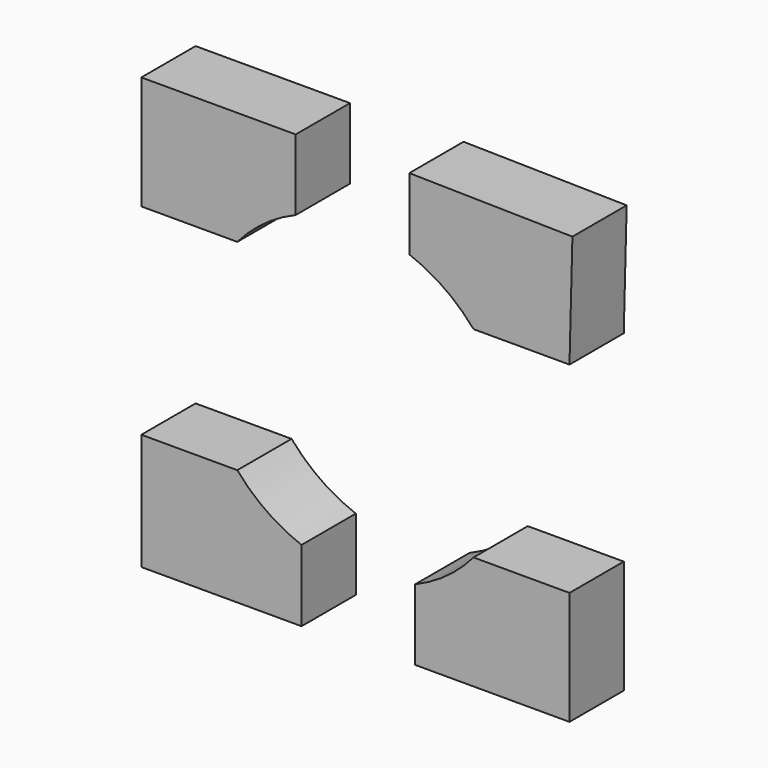
from build123d import *

# Parameters (mm, degrees)
F1_DEPTH  = 7
F2_W      = 42.9818704724
F2_H      = 20.7395032048
F6_DEPTH  = 25
F3_W      = 12.3234726489
F3_H      = 22.2423672676
F5_R      = 15.6600886523
F4_W      = 11.1211827025
F4_H      = 21.6412246227
F11_W     = 43.5830168426
F11_H     = 20.1383605599
F12_DEPTH = 8.4


with BuildPart() as f1:
    # F0 (on Front) → F1 (new body)
    with BuildSketch(Plane.XZ):
        with BuildLine():
            ThreePointArc((-12.18802236, 10.3697516024), (-9.434826942, 12.9253115211), (-6.1617363244, 14.7686371345))
            Line((-6.1617363244, 14.7686371345), (-6.1617363244, 22.0920816064))
            Line((-6.1617363244, 22.0920816064), (-22.0920816064, 22.0920816064))
            Line((-22.0920816064, 22.0920816064), (-22.0920816064, 10.3697516024))
            Line((-22.0920816064, 10.3697516024), (-12.18802236, 10.3697516024))
        make_face()
    extrude(amount=F1_DEPTH)


with BuildPart() as f1b:
    # F0 (on Front) → F1, piece 2 (new body)
    with BuildSketch(Plane.XZ):
        with BuildLine():
            ThreePointArc((5.5605913512, 15.0053144308), (9.1719917603, 13.113130995), (12.18802236, 10.3697516024))
            Line((12.18802236, 10.3697516024), (22.0920816064, 10.3697516024))
            Line((22.0920816064, 10.3697516024), (22.3926529288, 22.0920816064))
            Line((22.3926529288, 22.0920816064), (5.5605913512, 22.3926529288))
            Line((5.5605913512, 22.3926529288), (5.5605913512, 15.0053144308))
        make_face()
    extrude(amount=F1_DEPTH)


with BuildPart() as f1c:
    # F0 (on Front) → F1, piece 3 (new body)
    with BuildSketch(Plane.XZ):
        with BuildLine():
            Line((-5.5605913512, -22.3926529288), (-5.5605913512, -15.0053144308))
            ThreePointArc((-5.5605913512, -15.0053144308), (-9.1719917603, -13.113130995), (-12.18802236, -10.3697516024))
            Line((-12.18802236, -10.3697516024), (-22.0920816064, -10.3697516024))
            Line((-22.0920816064, -10.3697516024), (-22.0920816064, -22.3926529288))
            Line((-22.0920816064, -22.3926529288), (-5.5605913512, -22.3926529288))
        make_face()
    extrude(amount=F1_DEPTH)


with BuildPart() as f1d:
    # F0 (on Front) → F1, piece 4 (new body)
    with BuildSketch(Plane.XZ):
        with BuildLine():
            Line((22.0920816064, -10.3697516024), (12.18802236, -10.3697516024))
            ThreePointArc((12.18802236, -10.3697516024), (9.434826942, -12.9253115211), (6.1617363244, -14.7686371345))
            Line((6.1617363244, -14.7686371345), (6.1617363244, -22.0920816064))
            Line((6.1617363244, -22.0920816064), (22.0920816064, -22.0920816064))
            Line((22.0920816064, -22.0920816064), (22.0920816064, -10.3697516024))
        make_face()
    extrude(amount=F1_DEPTH)


with BuildPart() as f6:
    # F2 (on Front) → F6 (new body)
    with BuildSketch(Plane.XZ):
        Rectangle(F2_W, F2_H)
    extrude(amount=F6_DEPTH)


with BuildPart() as f6b:
    # F3 (on Front) → F6, piece 2 (new body)
    with BuildSketch(Plane.XZ):
        with Locations((0, 11.271469295)):
            Rectangle(F3_W, F3_H)
    extrude(amount=F6_DEPTH)


with BuildPart() as f6c:
    # F5 (on Front) → F6, piece 3 (new body)
    with BuildSketch(Plane.XZ):
        Circle(F5_R)
    extrude(amount=F6_DEPTH)


with BuildPart() as f6d:
    # F4 (on Front) → F6, piece 4 (new body)
    with BuildSketch(Plane.XZ):
        with Locations((0, -11.271469295)):
            Rectangle(F4_W, F4_H)
    extrude(amount=F6_DEPTH)


with BuildPart() as f12:
    # F11 (on Front) → F12 (new body)
    with BuildSketch(Plane.XZ):
        Rectangle(F11_W, F11_H)
    extrude(amount=F12_DEPTH)


solid = Compound([f1.part, f1b.part, f1c.part, f1d.part])
